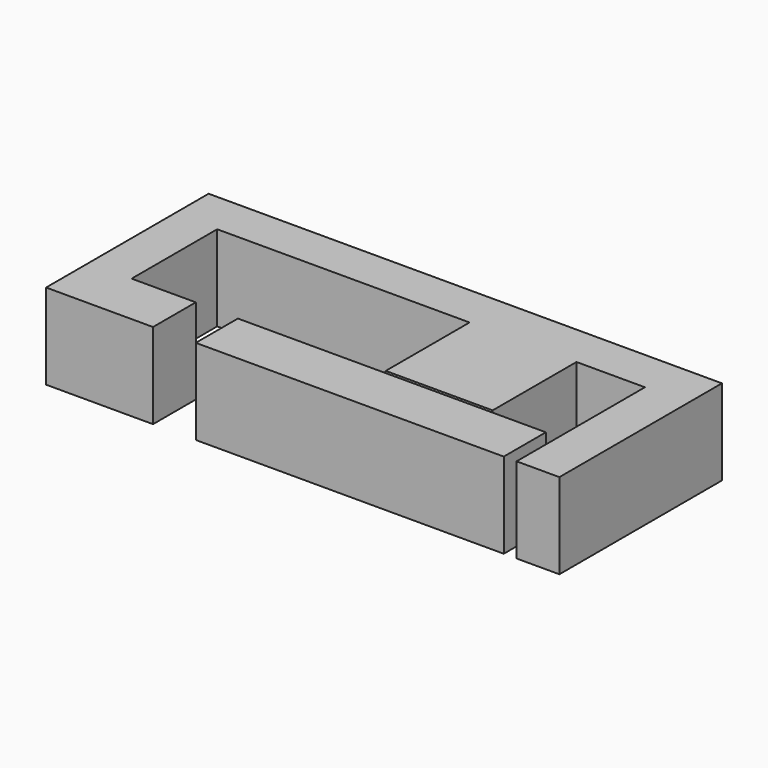
from build123d import *

# Parameters (mm, degrees)
BOX003_W     = 85
BOX003_H     = 13
BOX003_DEPTH = 20
BOX002_W     = 16
BOX002_H     = 25
BOX002_DEPTH = 20
BOX001_W     = 59
BOX001_H     = 25
BOX001_DEPTH = 20
BOX_W        = 120
BOX_H        = 47.5
BOX_DEPTH    = 20
BOX004_W     = 72
BOX004_H     = 12.3
BOX004_DEPTH = 20


with BuildPart() as cube003:
    # Box003 → Box003 (new body)
    with BuildSketch(Plane(origin=(25, 0, 0), x_dir=(1, 0, 0), z_dir=(0, 0, 1))):
        with Locations((42.5, 6.5)):
            Rectangle(BOX003_W, BOX003_H)
    extrude(amount=BOX003_DEPTH)


with BuildPart() as cube002:
    # Box002 → Box002 (new body)
    with BuildSketch(Plane(origin=(94, 12.5, 0), x_dir=(1, 0, 0), z_dir=(0, 0, 1))):
        with Locations((8, 12.5)):
            Rectangle(BOX002_W, BOX002_H)
    extrude(amount=BOX002_DEPTH)


with BuildPart() as cube001:
    # Box001 → Box001 (new body)
    with BuildSketch(Plane(origin=(10, 12.5, 0), x_dir=(1, 0, 0), z_dir=(0, 0, 1))):
        with Locations((29.5, 12.5)):
            Rectangle(BOX001_W, BOX001_H)
    extrude(amount=BOX001_DEPTH)


with BuildPart() as cut002:
    # Box → Box (new body)
    with BuildSketch(Plane.XY):
        with Locations((60, 23.75)):
            Rectangle(BOX_W, BOX_H)
    extrude(amount=BOX_DEPTH)

    # Cut: cut Cube001
    add(cube001.part, mode=Mode.SUBTRACT)

    # Cut001: cut Cube002
    add(cube002.part, mode=Mode.SUBTRACT)

    # Cut002: cut Cube003
    add(cube003.part, mode=Mode.SUBTRACT)


with BuildPart() as cube004:
    # Box004 → Box004 (new body)
    with BuildSketch(Plane(origin=(35, 0, 0), x_dir=(1, 0, 0), z_dir=(0, 0, 1))):
        with Locations((36, 6.15)):
            Rectangle(BOX004_W, BOX004_H)
    extrude(amount=BOX004_DEPTH)


solid = Compound([cut002.part, cube004.part])
